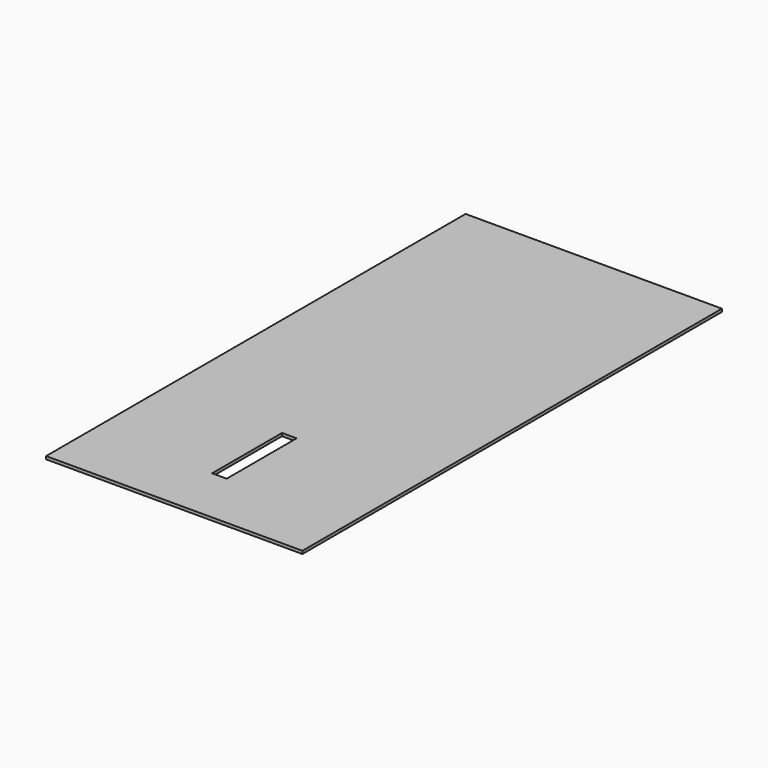
from build123d import *

# Parameters (mm, degrees)
SKETCH002_W   = 88
SKETCH002_H   = 180
SKETCH002_W_2 = 5
SKETCH002_H_2 = 30
PAD_DEPTH     = 1


with BuildPart() as part:
    # Sketch002 → Pad (new body)
    with BuildSketch(Plane.XY):
        with Locations((55.66102, 91.37784)):
            Rectangle(SKETCH002_W, SKETCH002_H)
        with Locations((55.16102, 36.37784)):
            Rectangle(SKETCH002_W_2, SKETCH002_H_2, mode=Mode.SUBTRACT)
    extrude(amount=PAD_DEPTH)


solid = part.part
